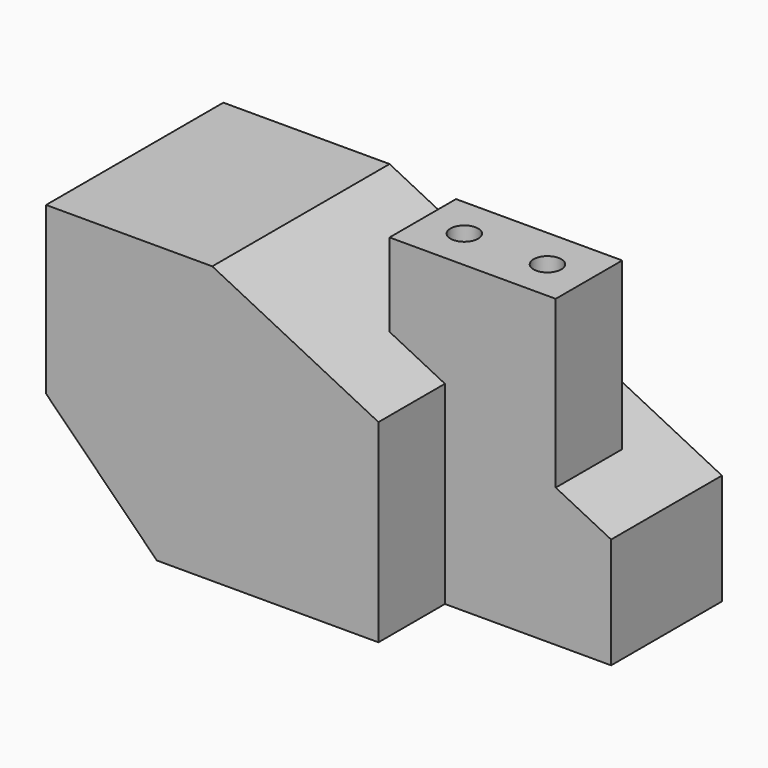
from build123d import *

# Parameters (mm, degrees)
F1_DEPTH = 50.8
F2_W     = 38.1
F2_H     = 19.05
F3_DEPTH = 63.501
F5_W     = 19.05
F5_H     = 38.1
F6_DEPTH = 38.1
F7_R     = 3.175
F8_DEPTH = 69.851


with BuildPart() as f1:
    # F0 (on Front) → F1 (new body)
    with BuildSketch(Plane.XZ):
        Polygon((-25.4, 38.1), (-63.5, 38.1), (-63.5, 0), (-38.1, -25.4), (50.8, -25.4), (50.8, 0), align=None)
    extrude(amount=F1_DEPTH)

    # F2 (on face) → F3 (cut, through all)
    with BuildSketch(Plane.XY.offset(38.1)):
        with Locations((31.75, -41.275)):
            Rectangle(F2_W, F2_H)
    extrude(amount=-F3_DEPTH, mode=Mode.SUBTRACT)

    # F5 (on offset) → F6 (join)
    with BuildSketch(Plane.YZ.offset(38.1)):
        with Locations((-22.225, 25.4)):
            Rectangle(F5_W, F5_H)
    extrude(amount=-F6_DEPTH)

    # F7 (on face) → F8 (cut, through all)
    with BuildSketch(Plane.XY.offset(44.45)):
        with Locations((9.525, -22.225)):
            Circle(F7_R)
        with Locations((28.575, -22.225)):
            Circle(F7_R)
    extrude(amount=-F8_DEPTH, mode=Mode.SUBTRACT)


solid = f1.part
